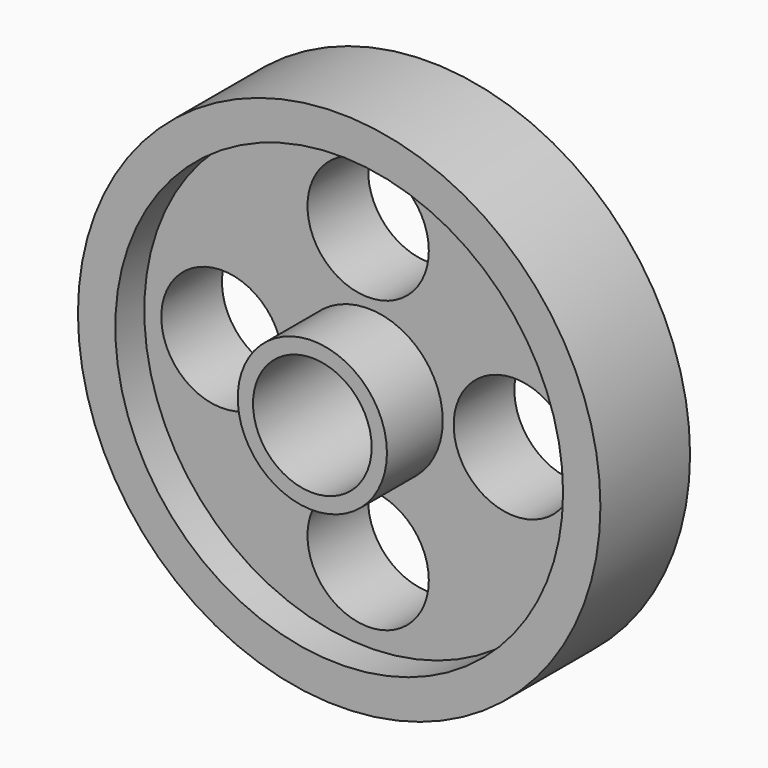
from build123d import *

# Parameters (mm, degrees)
F0_R     = 35.0012
F0_R_2   = 29.9974
F1_DEPTH = 15.0114
F0_R_3   = 9.9949
F0_R_4   = 7.948384
F2_DEPTH = 19.5072
F0_R_5   = 8.128
F3_DEPTH = 10.16


with BuildPart() as f1:
    # F0 (on Front) → F1 (new body)
    with BuildSketch(Plane.XZ):
        Circle(F0_R)
        Circle(F0_R_2, mode=Mode.SUBTRACT)
    extrude(amount=F1_DEPTH)


with BuildPart() as f2:
    # F0 (on Front) → F2 (new body)
    with BuildSketch(Plane.XZ):
        Circle(F0_R_3)
        Circle(F0_R_4, mode=Mode.SUBTRACT)
    extrude(amount=F2_DEPTH)


with BuildPart() as f3:
    # F0 (on Front) → F3 (new body)
    with BuildSketch(Plane.XZ):
        Circle(F0_R_2)
        with Locations((0, -19.435352)):
            Circle(F0_R_5, mode=Mode.SUBTRACT)
        with Locations((-19.58709, 0)):
            Circle(F0_R_5, mode=Mode.SUBTRACT)
        Circle(F0_R_3, mode=Mode.SUBTRACT)
        with Locations((19.58709, 0)):
            Circle(F0_R_5, mode=Mode.SUBTRACT)
        with Locations((0, 19.435352)):
            Circle(F0_R_5, mode=Mode.SUBTRACT)
    extrude(amount=F3_DEPTH)


solid = Compound([f1.part, f2.part, f3.part])
